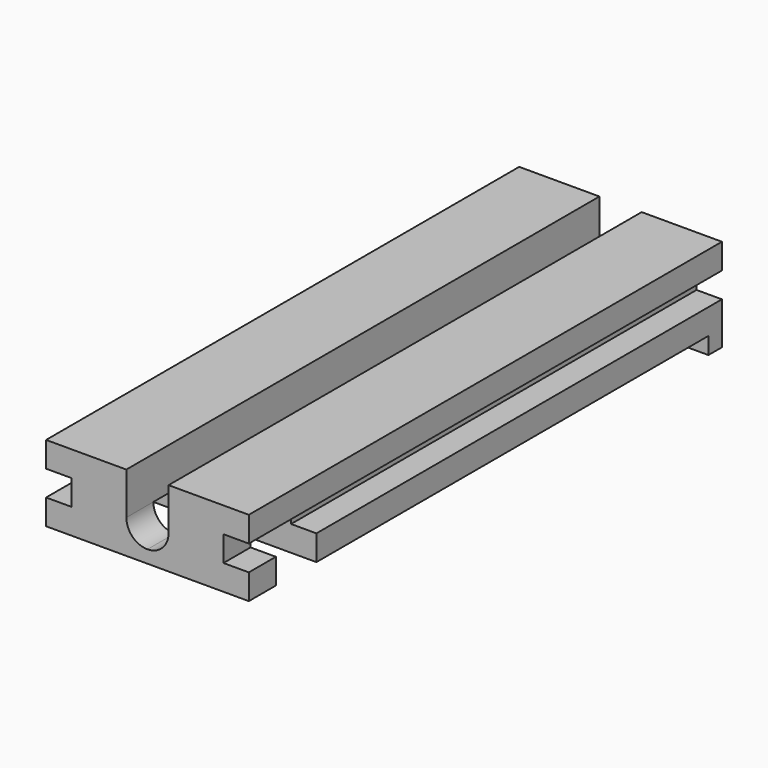
from build123d import *

# Parameters (mm, degrees)
F1_DEPTH       = 35
F3_DEPTH       = 1
F4_W           = 3
F4_H           = 2
F5_DEPTH       = 25
F7_D           = 2.5
F7_CBORE_D     = 6
F7_CBORE_DEPTH = 2


with BuildPart() as f1:
    # F0 (on Front) → F1 (new body)
    with BuildSketch(Plane.XZ):
        with BuildLine():
            Line((0, 0.75), (0, 0))
            Line((0, 0), (6, 0))
            Line((6, 0), (6, 1.5))
            Line((6, 1.5), (4.5, 1.5))
            Line((4.5, 1.5), (4.5, 3))
            Line((4.5, 3), (6, 3))
            Line((6, 3), (6, 4.5))
            Line((6, 4.5), (1.25, 4.5))
            Line((1.25, 4.5), (1.25, 2))
            ThreePointArc((1.25, 2), (0.8838834765, 1.1161165235), (0, 0.75))
        make_face()
        with BuildLine():
            Line((0, 0.75), (0, 0))
            Line((0, 0), (6, 0))
            Line((6, 0), (6, 1.5))
            Line((6, 1.5), (4.5, 1.5))
            Line((4.5, 1.5), (4.5, 3))
            Line((4.5, 3), (6, 3))
            Line((6, 3), (6, 4.5))
            Line((6, 4.5), (1.25, 4.5))
            Line((1.25, 4.5), (1.25, 2))
            ThreePointArc((1.25, 2), (0.8838834765, 1.1161165235), (0, 0.75))
        make_face()
    extrude(amount=F1_DEPTH)

    # F2: F1 across plane


with BuildPart() as f1_1:
    add(f1.part)
    add(f1.part.mirror(Plane.YZ))

    # F0 (on Front) → F3 (join)
    with BuildSketch(Plane.XZ):
        Polygon((6, 0), (0, 0), (-6, 0), (-6, -1), (6, -1), align=None)
    extrude(amount=F3_DEPTH)

    # F4 (on Right) → F5 (cut, symmetric)
    with BuildSketch(Plane.YZ):
        with Locations((-31.5, 1)):
            Rectangle(F4_W, F4_H)
    extrude(amount=F5_DEPTH, both=True, mode=Mode.SUBTRACT)

    # F7 (through all)
    with Locations(Plane(origin=(0, 0, 0), x_dir=(1, 0, 0), z_dir=(0, 0, -1))):
        with Locations((0, 10)):
            CounterBoreHole(F7_D / 2, F7_CBORE_D / 2, F7_CBORE_DEPTH)


solid = f1_1.part
